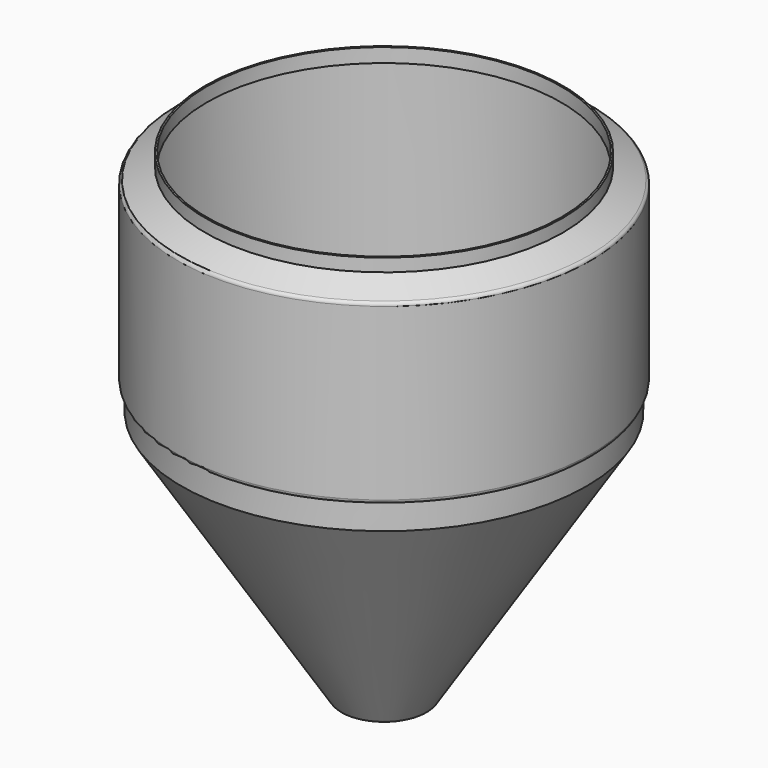
from build123d import *

# Parameters (mm, degrees)
F2_T = -2.54


with BuildPart() as f1:
    # F0 (on Front) → F1 (revolve)
    with BuildSketch(Plane.XZ):
        with BuildLine():
            Line((-58.8399947671, 0), (0, 0))
            Line((0, 0), (0, 249.4612043489))
            Line((0, 249.4612043489), (0, 707.8828306801))
            Line((0, 707.8828306801), (-263.6108994484, 707.8828306801))
            Line((-263.6108994484, 707.8828306801), (-263.6108994484, 688.8328306801))
            Line((-263.6108994484, 688.8328306801), (-301.4840327018, 671.3164688559))
            ThreePointArc((-301.4840327018, 671.3164688559), (-303.9001685791, 669.2075922443), (-304.8, 666.1293822848))
            Line((-304.8, 666.1293822848), (-304.8, 415.1478306801))
            ThreePointArc((-304.8, 415.1478306801), (-303.1261152545, 411.1067154256), (-299.085, 409.4328306801))
            Line((-299.085, 409.4328306801), (-298.45, 409.4328306801))
            Line((-298.45, 409.4328306801), (-298.45, 371.3328306801))
            Line((-298.45, 371.3328306801), (-63.6605127391, 2.6451740306))
            ThreePointArc((-63.6605127391, 2.6451740306), (-61.5892828191, 0.7047464927), (-58.8399947671, 0))
        make_face()
    revolve(axis=Axis((0, 0, 478.6720175145), (0, 0, -1)))

    # F2
    f2_openings = [f1.faces().sort_by_distance(p)[0] for p in [
        (0, 0, 707.882831),
    ]]
    offset(amount=F2_T, openings=f2_openings, kind=Kind.INTERSECTION)


solid = f1.part
